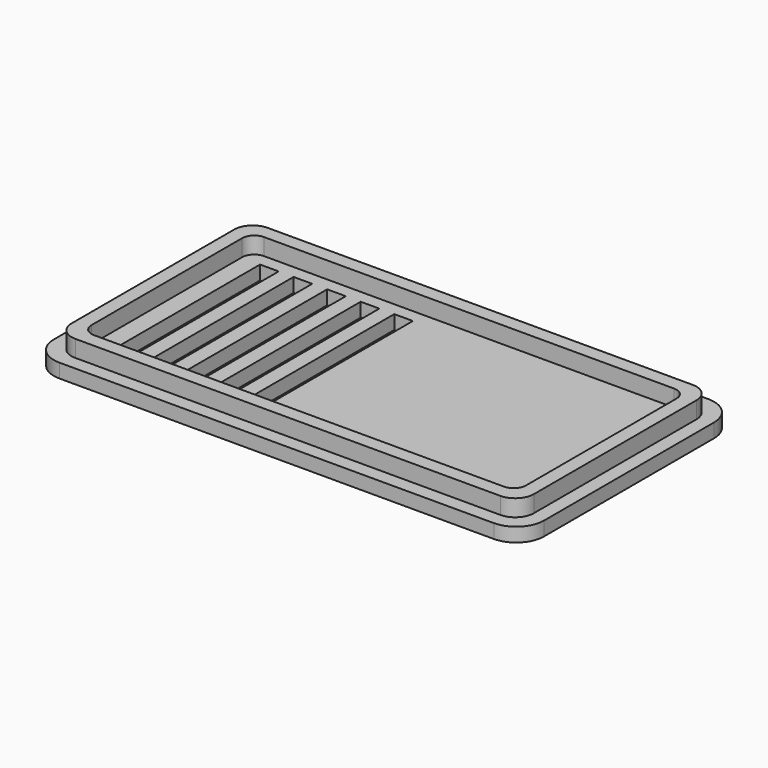
from build123d import *

# Parameters (mm, degrees)
F0_W     = 52.6
F0_H     = 28.8
F0_W_2   = 49.6
F0_H_2   = 25.8
F0_W_3   = 46.6
F0_H_3   = 22.8
F0_W_4   = 2
F0_H_4   = 20
F1_DEPTH = 1.5
F2_R     = 3
F3_DEPTH = 1.8
F4_R     = 2
F5_R     = 1.3


with BuildPart() as f1:
    # F0 (on Top) → F1 (new body)
    with BuildSketch(Plane.XY):
        with Locations((3.602296, 3.818181)):
            Rectangle(F0_W, F0_H)
        with Locations((3.602296, 3.818181)):
            Rectangle(F0_W_2, F0_H_2, mode=Mode.SUBTRACT)
        with Locations((3.602296, 3.818181)):
            Rectangle(F0_W, F0_H)
        with Locations((3.602296, 3.818181)):
            Rectangle(F0_W_2, F0_H_2, mode=Mode.SUBTRACT)
        with Locations((3.602296, 3.818181)):
            Rectangle(F0_W_2, F0_H_2)
        with Locations((3.602296, 3.818181)):
            Rectangle(F0_W_3, F0_H_3, mode=Mode.SUBTRACT)
        with Locations((3.602296, 3.818181)):
            Rectangle(F0_W_3, F0_H_3)
        with Locations((-16.697704, 3.818181)):
            Rectangle(F0_W_4, F0_H_4, mode=Mode.SUBTRACT)
        with Locations((-13.097704, 3.818181)):
            Rectangle(F0_W_4, F0_H_4, mode=Mode.SUBTRACT)
        with Locations((-9.497704, 3.818181)):
            Rectangle(F0_W_4, F0_H_4, mode=Mode.SUBTRACT)
        with Locations((-5.897704, 3.818181)):
            Rectangle(F0_W_4, F0_H_4, mode=Mode.SUBTRACT)
        with Locations((-2.297704, 3.818181)):
            Rectangle(F0_W_4, F0_H_4, mode=Mode.SUBTRACT)
    extrude(amount=-F1_DEPTH)

    # F2
    f2_edges = [f1.edges().sort_by_distance(p)[0] for p in [
        (-22.697704, 18.218181, -0.75),
        (29.902296, 18.218181, -0.75),
        (29.902296, -10.581819, -0.75),
        (-22.697704, -10.581819, -0.75),
    ]]
    fillet(f2_edges, radius=F2_R)

    # F0 (on Top) → F3 (join)
    with BuildSketch(Plane.XY):
        with Locations((3.602296, 3.818181)):
            Rectangle(F0_W_2, F0_H_2)
        with Locations((3.602296, 3.818181)):
            Rectangle(F0_W_3, F0_H_3, mode=Mode.SUBTRACT)
    extrude(amount=F3_DEPTH)

    # F4
    f4_edges = [f1.edges().sort_by_distance(p)[0] for p in [
        (-21.197704, -9.081819, 0.9),
        (-21.197704, 16.718181, 0.9),
        (28.402296, 16.718181, 0.9),
        (28.402296, -9.081819, 0.9),
    ]]
    fillet(f4_edges, radius=F4_R)

    # F5
    f5_edges = [f1.edges().sort_by_distance(p)[0] for p in [
        (-19.697704, 15.218181, 0.9),
        (-19.697704, -7.581819, 0.9),
        (26.902296, -7.581819, 0.9),
        (26.902296, 15.218181, 0.9),
    ]]
    fillet(f5_edges, radius=F5_R)


solid = f1.part
